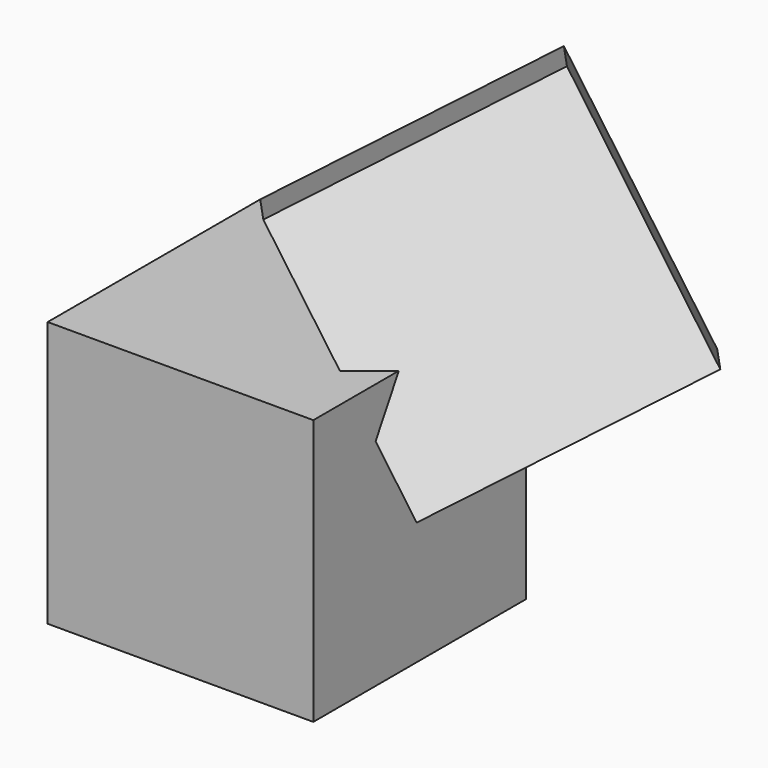
from build123d import *

# Parameters (mm, degrees)
F0_W     = 30
F0_H     = 30
F1_DEPTH = 30
F3_ANGLE = -45
F5_ANGLE = 35.264
F6_ANGLE = -90


with BuildPart() as f1:
    # F0 (on Top) → F1 (new body)
    with BuildSketch(Plane.XY):
        with Locations((15, -15)):
            Rectangle(F0_W, F0_H)
    extrude(amount=F1_DEPTH)


with BuildPart() as f3_1:
    # F3: copy of F1
    add(f1.part.rotate(Axis((34.3798883259, 0, 0), (1, 0, 0)), F3_ANGLE))


with BuildPart() as f3_1_1:
    # F5: moved
    add(f3_1.part.rotate(Axis((0, -32.6379947364, 0), (0, -1, 0)), F5_ANGLE))


with BuildPart() as f3_1_2:
    # F6: moved
    add(f3_1_1.part.rotate(Axis((0, -32.6379947364, 0), (0, -1, 0)), F6_ANGLE))


with BuildPart() as f1_1:
    # F6: moved
    add(f1.part.rotate(Axis((0, -32.6379947364, 0), (0, -1, 0)), F6_ANGLE))


solid = Compound([f3_1_2.part, f1_1.part])
